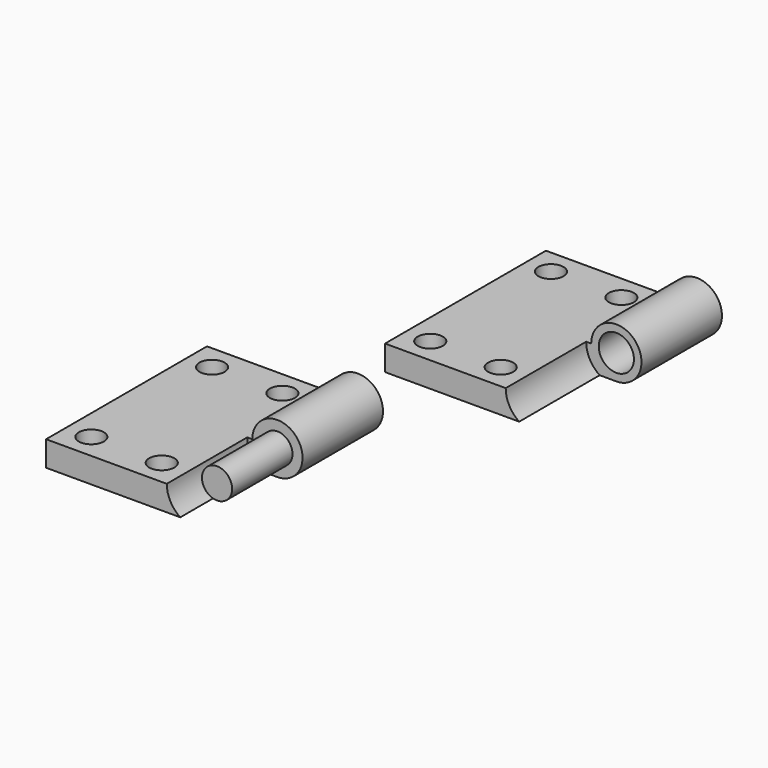
from build123d import *

# Parameters (mm, degrees)
PAD_DEPTH       = 20
SKETCH001_R     = 6
POCKET_DEPTH    = 20
SKETCH004_R     = 2.5
POCKET002_DEPTH = 5.001
SKETCH002_R     = 3.5
POCKET001_DEPTH = 15
SKETCH003_R     = 3
PAD001_DEPTH    = 15


with BuildPart() as hingetemplatebody:
    # Sketch → Pad (new body, symmetric)
    with BuildSketch(Plane.XZ):
        with BuildLine():
            ThreePointArc((0, -5), (3.535534, 3.535534), (-5, 0))
            Line((-30, 0), (-5, 0))
            Line((-30, -5), (-30, 0))
            Line((0, -5), (-30, -5))
        make_face()
    extrude(amount=PAD_DEPTH, both=True)

    # Sketch001 (on Face6 of Pad) → Pocket (cut)
    with BuildSketch(Plane.XZ.offset(20)):
        Circle(SKETCH001_R)
    extrude(amount=-POCKET_DEPTH, mode=Mode.SUBTRACT)

    # Sketch004 (on Face3 of Pocket) → Pocket002 (cut, through all)
    with BuildSketch(Plane(origin=(0, 0, 0), x_dir=(-1, 0, 0), z_dir=(0, 0, 1))):
        with Locations((11, 15)):
            Circle(SKETCH004_R)
        with Locations((25, 15)):
            Circle(SKETCH004_R)
        with Locations((11, -15)):
            Circle(SKETCH004_R)
        with Locations((25, -15)):
            Circle(SKETCH004_R)
    extrude(amount=-POCKET002_DEPTH, mode=Mode.SUBTRACT)


with BuildPart() as femalehingeclone:
    # Body001 base: copy of HingeTemplateBody
    add(hingetemplatebody.part)

    # Sketch002 (on Face4 of Clone) → Pocket001 (cut)
    with BuildSketch(Plane.XZ):
        Circle(SKETCH002_R)
    extrude(amount=-POCKET001_DEPTH, mode=Mode.SUBTRACT)


with BuildPart() as femalehingeclone_1:
    # Body001 placement: moved
    add(femalehingeclone.part.moved(Location((51, 0, 0))))


with BuildPart() as obj1:
    # Body002 base: copy of HingeTemplateBody
    add(hingetemplatebody.part)

    # Sketch003 (on Face4 of Clone001) → Pad001 (new body)
    with BuildSketch(Plane.XZ):
        Circle(SKETCH003_R)
    extrude(amount=PAD001_DEPTH)


with BuildPart() as obj1_1:
    # Body002 placement: moved
    add(obj1.part.moved(Location((30, -58, 0))))


solid = Compound([femalehingeclone_1.part, obj1_1.part])
